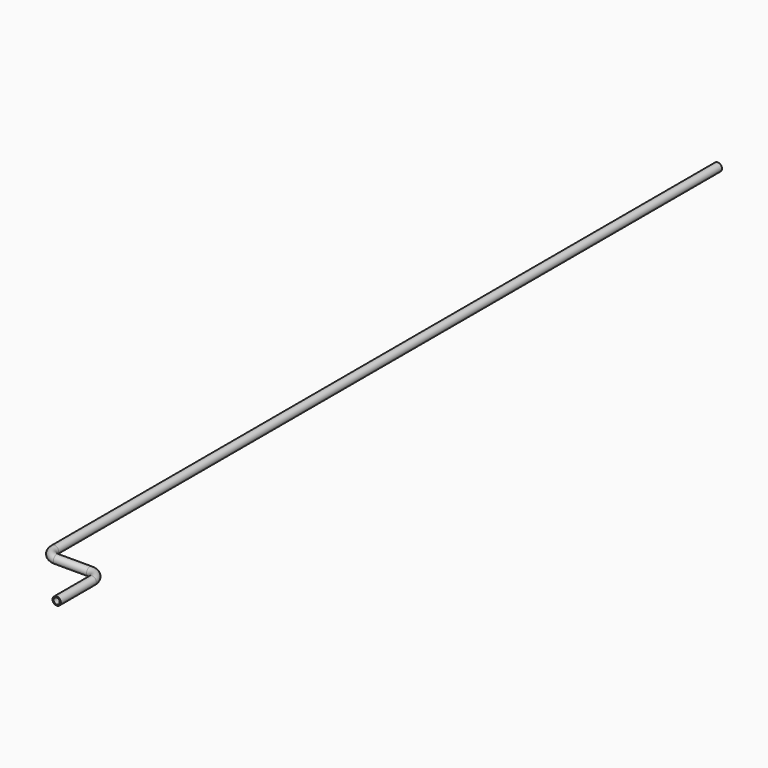
from build123d import *

# Parameters (mm, degrees)
F0_R     = 7.5
F0_R_2   = 5.5
F3_DEPTH = 17.2466


with BuildPart() as f2:
    # F2: sweep along a path in F1
    with BuildLine(Plane.XY) as f2_path:
        Line((0, 0), (0, -1480))
        ThreePointArc((0, -1480), (5.8578643763, -1494.1421356237), (20, -1500))
        Line((20, -1500), (80, -1500))
        ThreePointArc((80, -1500), (94.1421356237, -1505.8578643763), (100, -1520))
        Line((100, -1520), (100, -1600))
    # F0 (on Front) → F2 (sweep)
    with BuildSketch(Plane.XZ):
        Circle(F0_R)
        Circle(F0_R_2, mode=Mode.SUBTRACT)
    sweep(path=f2_path.line)

    # F3 (add): a face of the model
    f3_faces = [f2.faces().sort_by_distance(p)[0] for p in [
        (-7.2878679656, 0, 0),
    ]]
    extrude(f3_faces, amount=F3_DEPTH)


solid = f2.part
